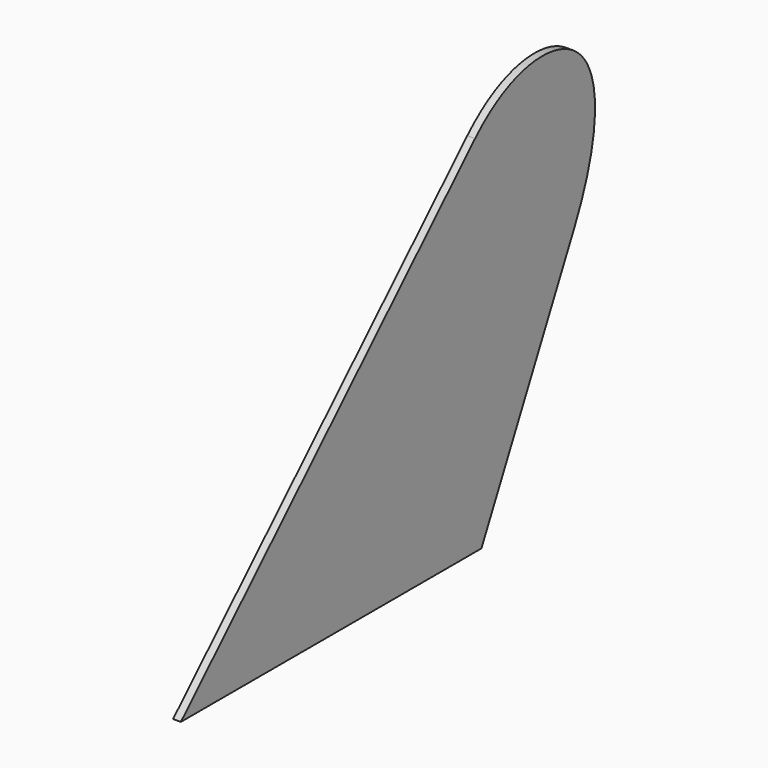
from build123d import *

# Parameters (mm, degrees)
F1_DEPTH = 3.175


with BuildPart() as f1:
    # F0 (on Right) → F1 (new body)
    with BuildSketch(Plane.YZ):
        with BuildLine():
            Line((149.1887083288, 147.6967043998), (0, 0))
            Line((0, 0), (152.4, 0))
            Line((152.4, 0), (199.4015822985, 95.1103118004))
            add(Edge.make_bspline(
                [(199.4015822985, 95.1103118004), (212.9830527722, 122.5931714894), (214.0281625881, 168.852260542), (167.2476864254, 165.5750785715), (149.1887083288, 147.6967043998)],
                knots=[0, 0, 0, 0, 0.5205319512, 1, 1, 1, 1], degree=3))
        make_face()
    extrude(amount=F1_DEPTH)


solid = f1.part
